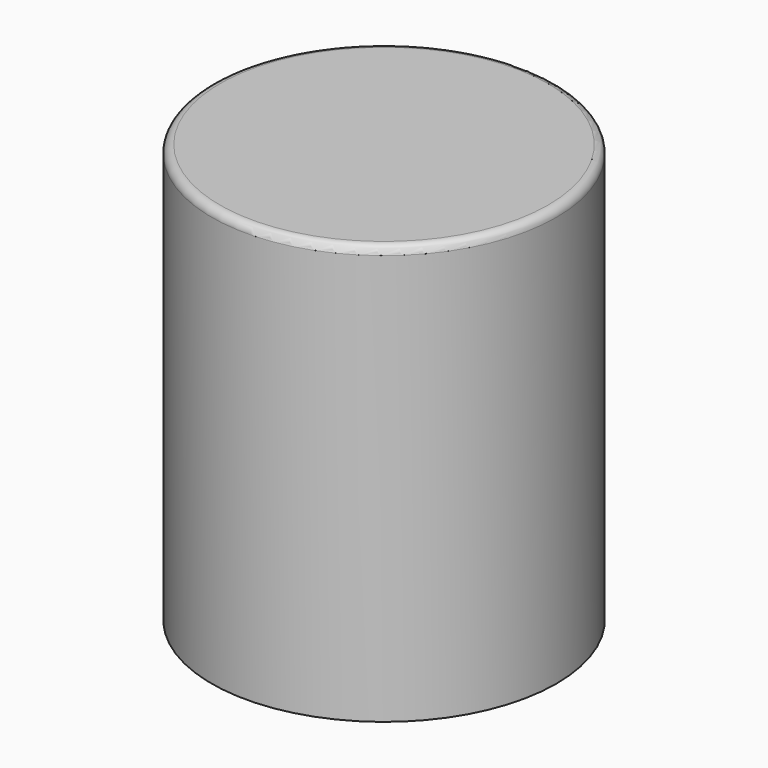
from build123d import *

# Parameters (mm, degrees)
CYLINDER_R     = 2
CYLINDER_DEPTH = 5
THICKNESS_T    = 0.1


with BuildPart() as part:
    # Cylinder → Cylinder (new body)
    with BuildSketch(Plane.XY):
        Circle(CYLINDER_R)
    extrude(amount=CYLINDER_DEPTH)

    # Thickness
    thickness_openings = [part.faces().sort_by_distance(p)[0] for p in [
        (0, 0, 0),
    ]]
    offset(amount=THICKNESS_T, openings=thickness_openings)


solid = part.part
